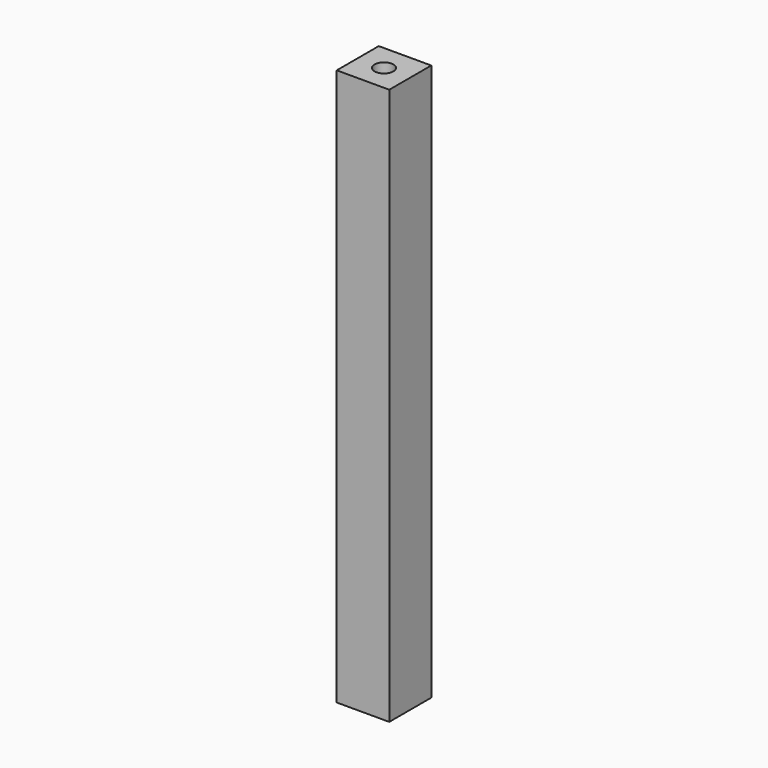
from build123d import *

# Parameters (mm, degrees)
SKETCH006_W     = 5
SKETCH006_H     = 5
PAD002_DEPTH    = 53
SKETCH007_R     = 0.9
POCKET003_DEPTH = 5
SKETCH009_R     = 0.85
POCKET004_DEPTH = 5


with BuildPart() as part:
    # Sketch006 → Pad002 (new body)
    with BuildSketch(Plane.XY.offset(-1)):
        Rectangle(SKETCH006_W, SKETCH006_H)
    extrude(amount=-PAD002_DEPTH)

    # Sketch007 (on Face5 of Pad002) → Pocket003 (cut)
    with BuildSketch(Plane.XY.offset(-1)):
        Circle(SKETCH007_R)
    extrude(amount=-POCKET003_DEPTH, mode=Mode.SUBTRACT)

    # Sketch009 (on Face5 of Pocket003) → Pocket004 (cut)
    with BuildSketch(Plane(origin=(0, 0, -54), x_dir=(1, 0, 0), z_dir=(0, 0, -1))):
        Circle(SKETCH009_R)
    extrude(amount=-POCKET004_DEPTH, mode=Mode.SUBTRACT)


solid = part.part
